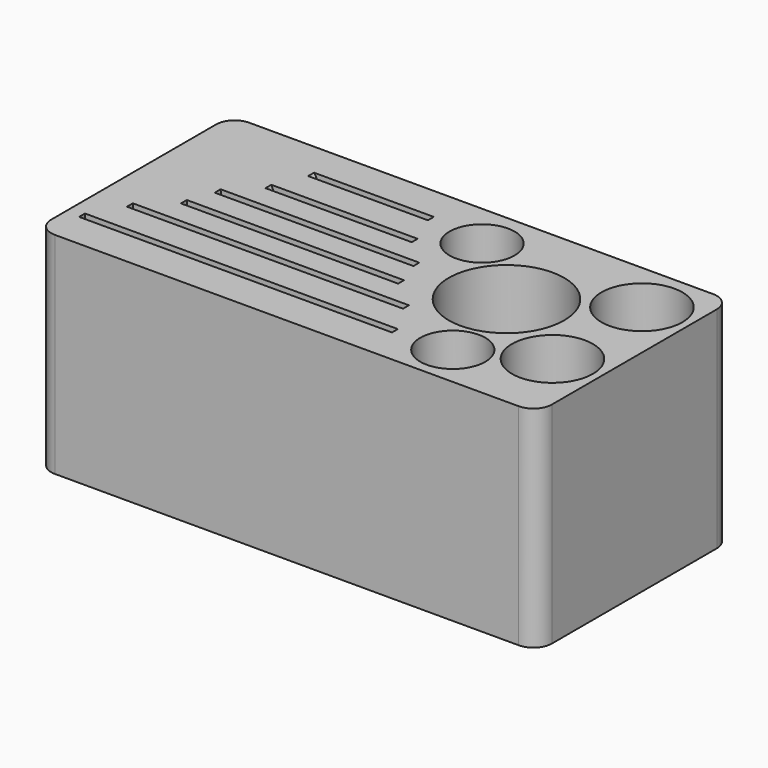
from build123d import *

# Parameters (mm, degrees)
SKETCH084_W     = 81.6
SKETCH084_H     = 39.6
PAD023_DEPTH    = 34.3
FILLET002_R     = 3
POCKET007_DEPTH = 1.2
POCKET019_DEPTH = 1.2
POCKET016_DEPTH = 1.2
POCKET021_DEPTH = 1.2
POCKET020_DEPTH = 1.2
POCKET018_DEPTH = 1.2
SKETCH094_R     = 6.6
SKETCH094_R_2   = 9.4
SKETCH094_R_3   = 5.3
POCKET017_DEPTH = 34.301


with BuildPart() as part:
    # Sketch084 → Pad023 (new body)
    with BuildSketch(Plane.XY):
        with Locations((42, 21)):
            Rectangle(SKETCH084_W, SKETCH084_H)
    extrude(amount=PAD023_DEPTH)

    # Fillet002
    fillet002_edges = [part.edges().sort_by_distance(p)[0] for p in [
        (82.8, 1.2, 17.15),
        (1.2, 1.2, 17.15),
        (1.2, 40.8, 17.15),
        (82.8, 40.8, 17.15),
    ]]
    fillet(fillet002_edges, radius=FILLET002_R)

    # Sketch088 → Pocket007 (cut)
    with BuildSketch(Plane(origin=(2, 7, 0), x_dir=(1, 0, 0), z_dir=(0, -1, 0))):
        with BuildLine():
            ThreePointArc((1.5, 25.5), (27, 0), (52.5, 25.5))
            Line((52.5, 61.679322), (52.5, 25.5))
            Line((1.5, 61.679322), (52.5, 61.679322))
            Line((1.5, 25.5), (1.5, 61.679322))
        make_face()
    extrude(amount=-POCKET007_DEPTH, mode=Mode.SUBTRACT)

    # Sketch089 → Pocket019 (cut)
    with BuildSketch(Plane(origin=(2, 13, 0), x_dir=(1, 0, 0), z_dir=(0, -1, 0))):
        with BuildLine():
            ThreePointArc((4.5, 28.5), (26.999982, 6), (49.5, 28.499964))
            Line((49.5, 51.5), (49.5, 28.499964))
            Line((4.5, 51.5), (49.5, 51.5))
            Line((4.5, 28.5), (4.5, 51.5))
        make_face()
    extrude(amount=-POCKET019_DEPTH, mode=Mode.SUBTRACT)

    # Sketch090 → Pocket016 (cut)
    with BuildSketch(Plane(origin=(2, 18, 0), x_dir=(1, 0, 0), z_dir=(0, -1, 0))):
        with BuildLine():
            ThreePointArc((9.3, 33.3), (26.999984, 15.6), (44.7, 33.299969))
            Line((44.7, 56.3), (44.7, 33.299969))
            Line((9.3, 56.3), (44.7, 56.3))
            Line((9.3, 33.3), (9.3, 56.3))
        make_face()
    extrude(amount=-POCKET016_DEPTH, mode=Mode.SUBTRACT)

    # Sketch091 → Pocket021 (cut)
    with BuildSketch(Plane(origin=(2, 23, 0), x_dir=(1, 0, 0), z_dir=(0, -1, 0))):
        with BuildLine():
            ThreePointArc((10.8, 34.8), (26.999981, 18.6), (43.2, 34.799961))
            Line((43.2, 57.8), (43.2, 34.799961))
            Line((10.8, 57.8), (43.2, 57.8))
            Line((10.8, 34.8), (10.8, 57.8))
        make_face()
    extrude(amount=-POCKET021_DEPTH, mode=Mode.SUBTRACT)

    # Sketch092 → Pocket020 (cut)
    with BuildSketch(Plane(origin=(2, 28, 0), x_dir=(1, 0, 0), z_dir=(0, -1, 0))):
        with BuildLine():
            ThreePointArc((14.4, 38.4), (26.999981, 25.8), (39.6, 38.399963))
            Line((39.6, 61.4), (39.6, 38.399963))
            Line((14.4, 61.4), (39.6, 61.4))
            Line((14.4, 38.4), (14.4, 61.4))
        make_face()
    extrude(amount=-POCKET020_DEPTH, mode=Mode.SUBTRACT)

    # Sketch093 → Pocket018 (cut)
    with BuildSketch(Plane(origin=(2, 34, 0), x_dir=(1, 0, 0), z_dir=(0, -1, 0))):
        with BuildLine():
            ThreePointArc((15.8, 39.8), (26.999979, 28.6), (38.2, 39.799958))
            Line((38.2, 62.8), (38.2, 39.799958))
            Line((15.8, 62.8), (38.2, 62.8))
            Line((15.8, 39.8), (15.8, 62.8))
        make_face()
    extrude(amount=-POCKET018_DEPTH, mode=Mode.SUBTRACT)

    # Sketch094 → Pocket017 (cut, through all)
    with BuildSketch(Plane.XY):
        with Locations((75, 32.3)):
            Circle(SKETCH094_R)
        with Locations((75, 14.069301)):
            Circle(SKETCH094_R)
        with Locations((60.137726, 23.285616)):
            Circle(SKETCH094_R_2)
        with Locations((63.524133, 8.113385)):
            Circle(SKETCH094_R_3)
        with Locations((48.131386, 33.31328)):
            Circle(SKETCH094_R_3)
    extrude(amount=POCKET017_DEPTH, mode=Mode.SUBTRACT)


solid = part.part
